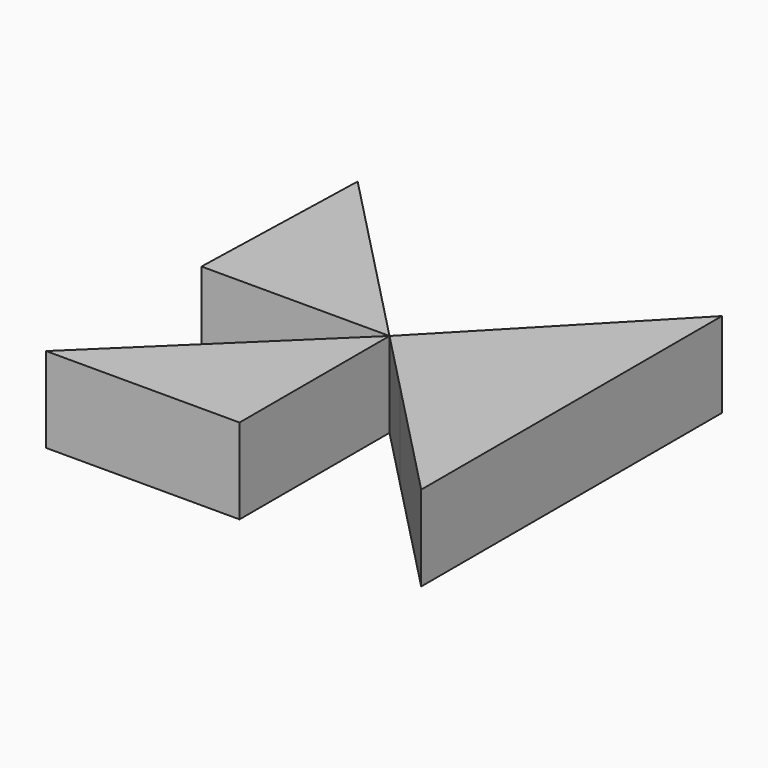
from build123d import *

# Parameters (mm, degrees)
F1_DEPTH = 25.4


with BuildPart() as f1:
    # F0 (on Top) → F1 (new body)
    with BuildSketch(Plane.XY):
        with BuildLine():
            ThreePointArc((-25.4736543276, 0), (-23.4573115433, 9.9328545727), (-17.7274865659, 18.2932579072))
            Line((-17.7274865659, 18.2932579072), (-54.3863869283, 56.1221241951))
            Line((-54.3863869283, 56.1221241951), (-56.0054767745, 0))
            Line((-56.0054767745, 0), (-25.4736543276, 0))
        make_face()
        with BuildLine():
            Line((-25.4736543276, 0), (0, 0))
            Line((0, 0), (-17.7274865659, 18.2932579072))
            ThreePointArc((-17.7274865659, 18.2932579072), (-23.4573115433, 9.9328545727), (-25.4736543276, 0))
        make_face()
    extrude(amount=F1_DEPTH)


with BuildPart() as f1b:
    # F0 (on Top) → F1, piece 2 (new body)
    with BuildSketch(Plane.XY):
        with BuildLine():
            ThreePointArc((17.7274865659, -18.2932579072), (23.4573115433, -9.9328545727), (25.4736543276, 0))
            Line((25.4736543276, 0), (0, 0))
            Line((0, 0), (17.7274865659, -18.2932579072))
        make_face()
        with BuildLine():
            Line((54.1074797511, 0), (25.4736543276, 0))
            ThreePointArc((25.4736543276, 0), (23.4573115433, -9.9328545727), (17.7274865659, -18.2932579072))
            Line((17.7274865659, -18.2932579072), (54.1074797511, -55.8343157172))
            Line((54.1074797511, -55.8343157172), (54.1074797511, 0))
        make_face()
        with BuildLine():
            Line((0, 0), (25.4736543276, 0))
            ThreePointArc((25.4736543276, 0), (23.444532262, 9.9629800673), (17.6804283896, 18.3387435983))
            Line((17.6804283896, 18.3387435983), (0, 0))
        make_face()
        with BuildLine():
            ThreePointArc((17.6804283896, 18.3387435983), (23.444532262, 9.9629800673), (25.4736543276, 0))
            Line((25.4736543276, 0), (54.1074797511, 0))
            Line((54.1074797511, 0), (54.1074797511, 56.1221241951))
            Line((54.1074797511, 56.1221241951), (17.6804283896, 18.3387435983))
        make_face()
    extrude(amount=F1_DEPTH)


with BuildPart() as f1c:
    # F0 (on Top) → F1, piece 3 (new body)
    with BuildSketch(Plane.XY):
        with BuildLine():
            Line((0, -25.4736543276), (0, 0))
            Line((0, 0), (-18.2932579072, -17.7274865659))
            ThreePointArc((-18.2932579072, -17.7274865659), (-9.9328545727, -23.4573115433), (0, -25.4736543276))
        make_face()
        with BuildLine():
            Line((0, -55.8343157172), (0, -25.4736543276))
            ThreePointArc((0, -25.4736543276), (-9.9328545727, -23.4573115433), (-18.2932579072, -17.7274865659))
            Line((-18.2932579072, -17.7274865659), (-57.6162635175, -55.8343157172))
            Line((-57.6162635175, -55.8343157172), (0, -55.8343157172))
        make_face()
    extrude(amount=F1_DEPTH)


solid = Compound([f1.part, f1b.part, f1c.part])
